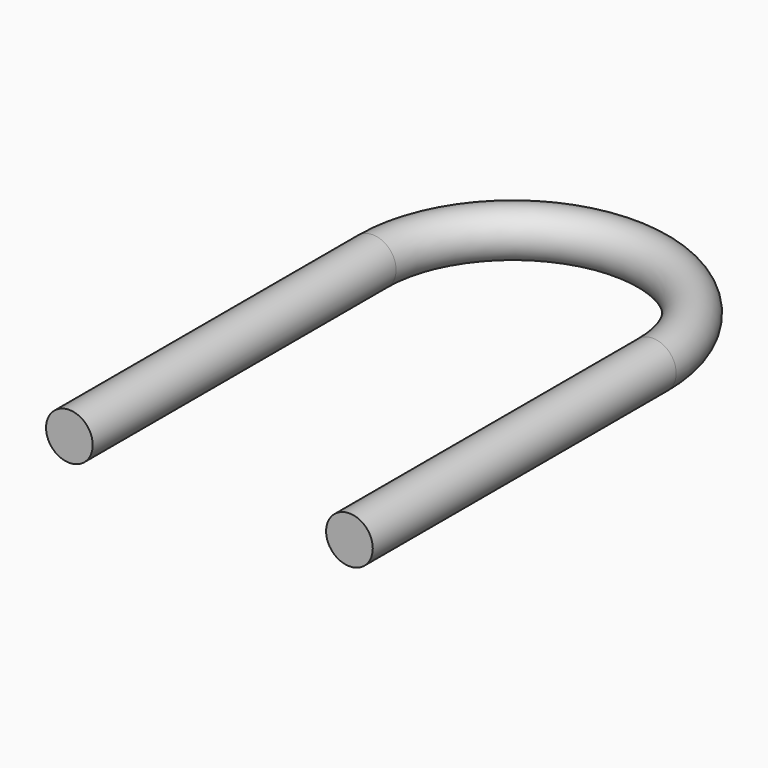
from build123d import *

# Parameters (mm, degrees)
F0_R      = 4
F1_ANGLE  = -180
F1_FACE_R = 4
F2_DEPTH  = 65


with BuildPart() as f1:
    # F0 (on Front) → F1 (revolve)
    with BuildSketch(Plane.XZ):
        with Locations((24, 0)):
            Circle(F0_R)
    revolve(axis=Axis((0, 0, -3.866768), (0, 0, -1)), revolution_arc=F1_ANGLE)

    # F1_face (on face) → F2 (join)
    with BuildSketch(Plane(origin=(-24, 0, 0), x_dir=(1, 0, 0), z_dir=(0, -1, 0))):
        Circle(F1_FACE_R)
        with Locations((48, 0)):
            Circle(F1_FACE_R)
    extrude(amount=F2_DEPTH)


solid = f1.part
